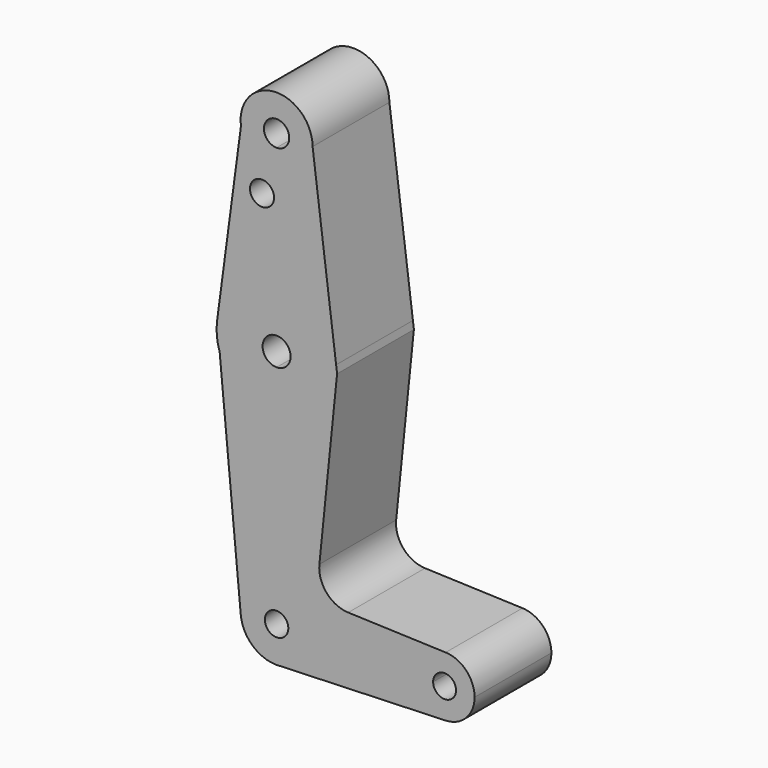
from build123d import *

# Parameters (mm, degrees)
F0_R     = 3.1855771379
F1_DEPTH = 25.4


with BuildPart() as f1:
    # F0 (on Front) → F1 (new body)
    with BuildSketch(Plane.XZ):
        with BuildLine():
            ThreePointArc((-31.1678428264, 54.5174340067), (-27.9764278187, 48.6770409204), (-21.7403471295, 46.3518272115))
            ThreePointArc((-21.7403471295, 46.3518272115), (-15.0051550387, 49.1416351207), (-12.2153471295, 55.8768272115))
            ThreePointArc((-12.2153471295, 55.8768272115), (-22.4217898956, 65.3774198644), (-31.1678428264, 54.5174340067))
        make_face()
        with BuildLine():
            ThreePointArc((-18.3895327857, 55.8768272115), (-19.3709635845, 53.5074436665), (-21.7403471295, 52.5260128678))
            ThreePointArc((-21.7403471295, 52.5260128678), (-24.1097306744, 58.2462107565), (-18.3895327857, 55.8768272115))
        make_face(mode=Mode.SUBTRACT)
        with BuildLine():
            ThreePointArc((-12.2153471295, 55.8768272115), (-15.0051550387, 49.1416351207), (-21.7403471295, 46.3518272115))
            Line((-21.7403471295, 46.3518272115), (-21.7403471295, 20.9518272115))
            ThreePointArc((-21.7403471295, 20.9518272115), (-11.2490643743, 16.991046076), (-5.9928902583, 7.0851168053))
            Line((-5.9928902583, 7.0851168053), (-12.2153471295, 55.8768272115))
        make_face()
        with BuildLine():
            Line((-21.7403471295, 20.9518272115), (-21.7403471295, 46.3518272115))
            ThreePointArc((-21.7403471295, 46.3518272115), (-27.9764278187, 48.6770409204), (-31.1678428264, 54.5174340067))
            Line((-31.1678428264, 54.5174340067), (-37.4762679634, 7.1735915065))
            ThreePointArc((-37.4762679634, 7.1735915065), (-32.1981072103, 17.0204815556), (-21.7403471295, 20.9518272115))
        make_face()
        with Locations((-25.5938470364, 40.6769439578)):
            Circle(F0_R, mode=Mode.SUBTRACT)
        with BuildLine():
            ThreePointArc((-5.9928902583, 7.0851168053), (-11.2490643743, 16.991046076), (-21.7403471295, 20.9518272115))
            Line((-21.7403471295, 20.9518272115), (-21.7403471295, 8.7790547816))
            ThreePointArc((-21.7403471295, 8.7790547816), (-19.1224769092, 7.6946974318), (-18.0381195594, 5.0768272115))
            ThreePointArc((-18.0381195594, 5.0768272115), (-19.1224769092, 2.4589569912), (-21.7403471295, 1.3745996414))
            Line((-21.7403471295, 1.3745996414), (-21.7403471295, -10.7981727885))
            ThreePointArc((-21.7403471295, -10.7981727885), (-10.5150269781, -6.1484929398), (-5.8653471295, 5.0768272115))
            ThreePointArc((-5.8653471295, 5.0768272115), (-5.8972649983, 6.0829949836), (-5.9928902583, 7.0851168053))
        make_face()
        with BuildLine():
            Line((-21.7403471295, 8.7790547816), (-21.7403471295, 20.9518272115))
            ThreePointArc((-21.7403471295, 20.9518272115), (-32.1981072103, 17.0204815556), (-37.4762679634, 7.1735915065))
            Line((-37.4762679634, 7.1735915065), (-36.8094570591, 0.0830760233))
            ThreePointArc((-36.8094570591, 0.0830760233), (-31.0338885666, -7.7935151521), (-21.7403471295, -10.7981727885))
            Line((-21.7403471295, -10.7981727885), (-21.7403471295, 1.3745996414))
            ThreePointArc((-21.7403471295, 1.3745996414), (-25.4425746995, 5.0768272115), (-21.7403471295, 8.7790547816))
        make_face()
        with BuildLine():
            Line((-5.7367710267, 5.0768272115), (-5.9928902583, 7.0851168053))
            ThreePointArc((-5.9928902583, 7.0851168053), (-5.8972649983, 6.0829949836), (-5.8653471295, 5.0768272115))
            ThreePointArc((-5.8653471295, 5.0768272115), (-10.5150269781, -6.1484929398), (-21.7403471295, -10.7981727885))
            Line((-21.7403471295, -10.7981727885), (-21.7403471295, -48.8981727885))
            ThreePointArc((-21.7403471295, -48.8981727885), (-15.0051550387, -51.6879806977), (-12.2153471295, -58.4231727885))
            Line((-12.2153471295, -58.4231727885), (14.7721528705, -58.4231727885))
            ThreePointArc((14.7721528705, -58.4231727885), (17.1977423858, -52.7115400046), (22.9920581451, -50.4906981739))
            Line((22.9920581451, -50.4906981739), (-2.7931636815, -49.5727144421))
            ThreePointArc((-2.7931636815, -49.5727144421), (-8.504221062, -46.8504463895), (-10.419449734, -40.8206189552))
            Line((-10.419449734, -40.8206189552), (-5.7367710267, 5.0768272115))
        make_face()
        with BuildLine():
            Line((-36.8094570591, 0.0830760233), (-37.4762679634, 7.1735915065))
            ThreePointArc((-37.4762679634, 7.1735915065), (-37.5456099409, 3.5904583272), (-36.8094570591, 0.0830760233))
        make_face()
        with BuildLine():
            ThreePointArc((-21.7403471295, -10.7981727885), (-31.0338885666, -7.7935151521), (-36.8094570591, 0.0830760233))
            Line((-36.8094570591, 0.0830760233), (-31.2235048291, -59.3149939833))
            ThreePointArc((-31.2235048291, -59.3149939833), (-28.7837916661, -52.0110347629), (-21.7403471295, -48.8981727885))
            Line((-21.7403471295, -48.8981727885), (-21.7403471295, -10.7981727885))
        make_face()
        with BuildLine():
            ThreePointArc((-21.7403471295, -48.8981727885), (-28.7837916661, -52.0110347629), (-31.2235048291, -59.3149939833))
            ThreePointArc((-31.2235048291, -59.3149939833), (-28.283343315, -65.3452263794), (-22.0972540458, -67.9414836919))
            Line((-22.0972540458, -67.9414836919), (-20.7156125473, -67.8928899984))
            ThreePointArc((-20.7156125473, -67.8928899984), (-14.652109623, -64.7857598451), (-12.2153471295, -58.4231727885))
            Line((-12.2153471295, -58.4231727885), (-18.636888805, -58.4231727885))
            ThreePointArc((-18.636888805, -58.4231727885), (-23.9348235559, -60.6176492149), (-21.7403471295, -55.319714464))
            Line((-21.7403471295, -55.319714464), (-21.7403471295, -48.8981727885))
        make_face()
        with BuildLine():
            Line((-20.7156125473, -67.8928899984), (-22.0972540458, -67.9414836919))
            ThreePointArc((-22.0972540458, -67.9414836919), (-21.4055504978, -67.9422870443), (-20.7156125473, -67.8928899984))
        make_face()
        with BuildLine():
            Line((14.7721528705, -58.4231727885), (-12.2153471295, -58.4231727885))
            ThreePointArc((-12.2153471295, -58.4231727885), (-14.652109623, -64.7857598451), (-20.7156125473, -67.8928899984))
            Line((-20.7156125473, -67.8928899984), (22.9886500636, -66.3557680017))
            ThreePointArc((22.9886500636, -66.3557680017), (17.1965155591, -64.1336213904), (14.7721528705, -58.4231727885))
        make_face()
        with BuildLine():
            ThreePointArc((30.6471528705, -58.4231727885), (28.4212856545, -52.9112623038), (22.9920581451, -50.4906981739))
            ThreePointArc((22.9920581451, -50.4906981739), (17.1977423858, -52.7115400046), (14.7721528705, -58.4231727885))
            ThreePointArc((14.7721528705, -58.4231727885), (17.1965155591, -64.1336213904), (22.9886500636, -66.3557680017))
            ThreePointArc((22.9886500636, -66.3557680017), (28.4201014724, -63.9363101), (30.6471528705, -58.4231727885))
        make_face()
        with BuildLine():
            ThreePointArc((25.7415006907, -58.4231727885), (22.7096528705, -61.4550206087), (19.6778050504, -58.4231727885))
            ThreePointArc((19.6778050504, -58.4231727885), (22.7096528705, -55.3913249683), (25.7415006907, -58.4231727885))
        make_face(mode=Mode.SUBTRACT)
        with BuildLine():
            ThreePointArc((-12.2153471295, -58.4231727885), (-15.0051550387, -51.6879806977), (-21.7403471295, -48.8981727885))
            Line((-21.7403471295, -48.8981727885), (-21.7403471295, -55.319714464))
            ThreePointArc((-21.7403471295, -55.319714464), (-19.5458707031, -56.2286963621), (-18.636888805, -58.4231727885))
            Line((-18.636888805, -58.4231727885), (-12.2153471295, -58.4231727885))
        make_face()
    extrude(amount=F1_DEPTH)


solid = f1.part
